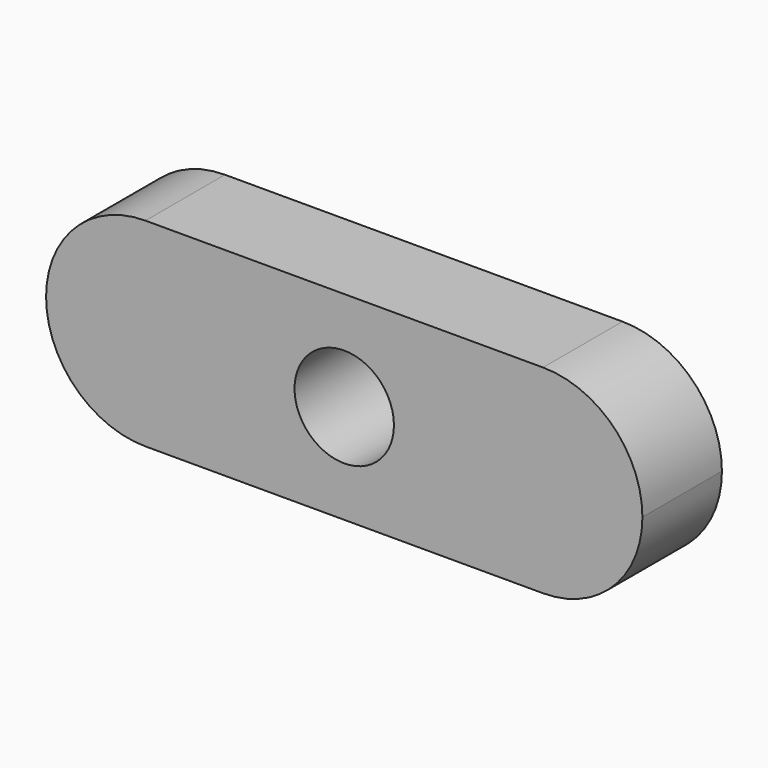
from build123d import *

# Parameters (mm, degrees)
F0_R     = 6.35
F1_DEPTH = 6.35


with BuildPart() as f1:
    # F0 (on Front) → F1 (new body, symmetric)
    with BuildSketch(Plane.XZ):
        with BuildLine():
            Line((25.4, 12.7), (-25.4, 12.7))
            ThreePointArc((-25.4, 12.7), (-16.419744, 8.980256), (-12.7, 0))
            ThreePointArc((-12.7, 0), (-16.419744, -8.980256), (-25.4, -12.7))
            Line((-25.4, -12.7), (25.4, -12.7))
            ThreePointArc((25.4, -12.7), (12.7, 0), (25.4, 12.7))
        make_face()
        Circle(F0_R, mode=Mode.SUBTRACT)
        with BuildLine():
            ThreePointArc((38.1, 0), (34.380256, 8.980256), (25.4, 12.7))
            ThreePointArc((25.4, 12.7), (12.7, 0), (25.4, -12.7))
            ThreePointArc((25.4, -12.7), (34.380256, -8.980256), (38.1, 0))
        make_face()
        with BuildLine():
            ThreePointArc((-12.7, 0), (-16.419744, 8.980256), (-25.4, 12.7))
            ThreePointArc((-25.4, 12.7), (-38.1, 0), (-25.4, -12.7))
            ThreePointArc((-25.4, -12.7), (-16.419744, -8.980256), (-12.7, 0))
        make_face()
    extrude(amount=F1_DEPTH, both=True)


solid = f1.part
